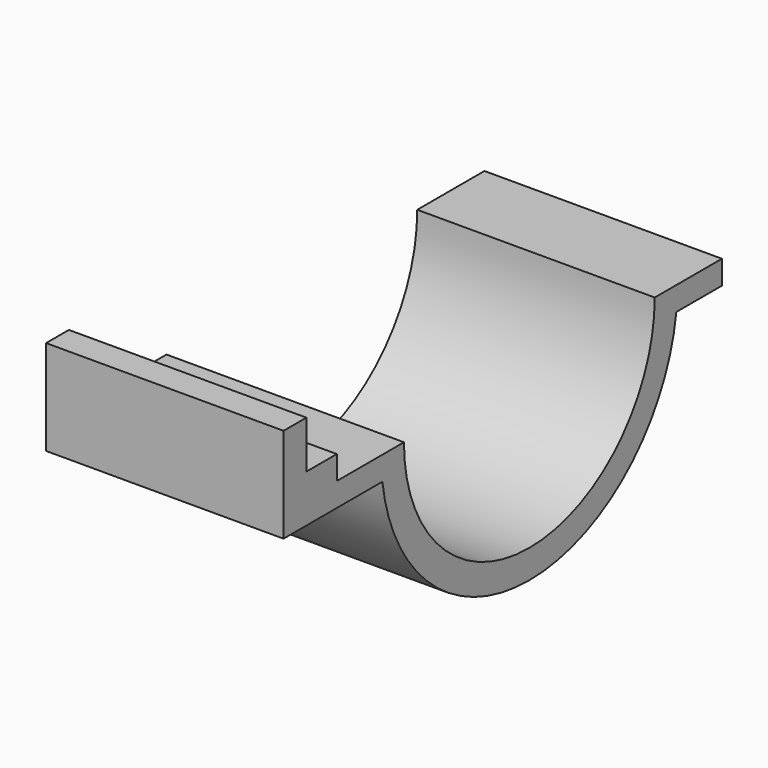
from build123d import *

# Parameters (mm, degrees)
F1_DEPTH = 25


with BuildPart() as f1:
    # F0 (on Right) → F1 (new body)
    with BuildSketch(Plane.YZ):
        with BuildLine():
            Line((-29.33908, 7.5), (-32.33908, 7.5))
            Line((-32.33908, 7.5), (-32.33908, -2.5))
            Line((-32.33908, -2.5), (-19.33908, -2.5))
            ThreePointArc((-19.33908, -2.5), (0, -19.5), (19.33908, -2.5))
            Line((19.33908, -2.5), (25.33908, -2.5))
            Line((25.33908, -2.5), (25.33908, 0))
            Line((25.33908, 0), (16.5, 0))
            ThreePointArc((16.5, 0), (0, -16.5), (-16.5, 0))
            Line((-16.5, 0), (-25.33908, 0))
            Line((-25.33908, 0), (-25.33908, 2.5))
            Line((-25.33908, 2.5), (-29.33908, 2.5))
            Line((-29.33908, 2.5), (-29.33908, 7.5))
        make_face()
    extrude(amount=F1_DEPTH)


solid = f1.part
